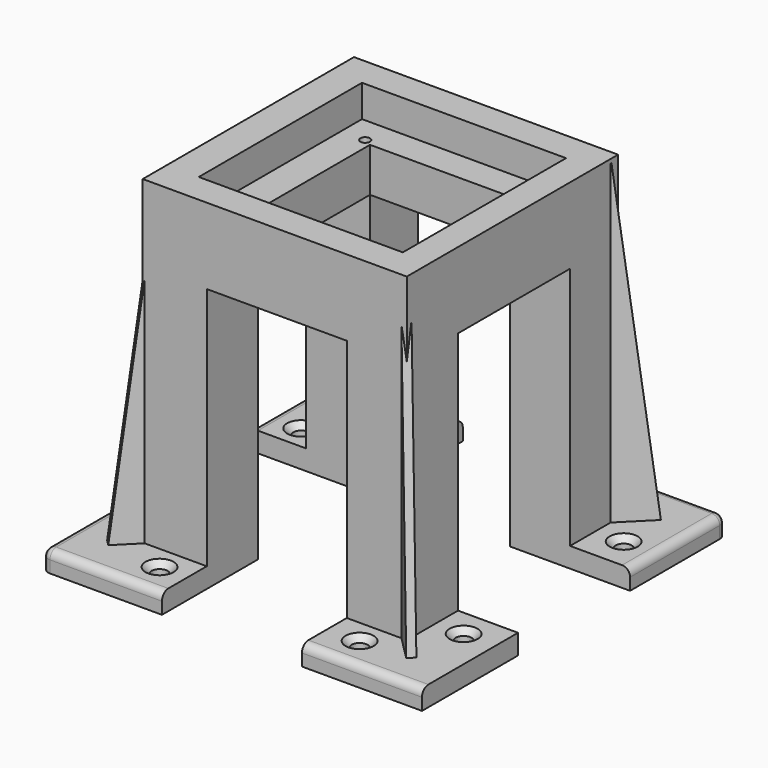
from build123d import *

# Parameters (mm, degrees)
CYLINDER019_R             = 1.2
CYLINDER019_DEPTH         = 10
CYLINDER020_R             = 1.2
CYLINDER020_DEPTH         = 10
CYLINDER021_R             = 1.2
CYLINDER021_DEPTH         = 10
CYLINDER018_R             = 1.2
CYLINDER018_DEPTH         = 10
CYLINDER201_R             = 2
CYLINDER201_DEPTH         = 10
CYLINDER200_R             = 2
CYLINDER200_DEPTH         = 10
BOX013_W                  = 5
BOX013_H                  = 10
BOX013_DEPTH              = 150
BOX013_PLACEMENT_ANGLE    = 7
BOX012_W                  = 2
BOX012_H                  = 10
BOX012_DEPTH              = 80
CUT015_PLACEMENT_ANGLE    = 45
BOX246_W                  = 30
BOX246_H                  = 30
BOX246_DEPTH              = 5
CHAMFER011_SIZE           = 1.5
CHAMFER012_SIZE           = 1.5
FILLET177_R               = 2
FILLET008_R               = 2
FILLET008_PLACEMENT_ANGLE = 90
CYLINDER013_R             = 2
CYLINDER013_DEPTH         = 10
CYLINDER012_R             = 2
CYLINDER012_DEPTH         = 10
BOX016_W                  = 5
BOX016_H                  = 10
BOX016_DEPTH              = 150
BOX016_PLACEMENT_ANGLE    = 7
BOX015_W                  = 2
BOX015_H                  = 10
BOX015_DEPTH              = 80
CUT018_PLACEMENT_ANGLE    = 45
BOX014_W                  = 30
BOX014_H                  = 30
BOX014_DEPTH              = 5
CHAMFER013_SIZE           = 1.5
CHAMFER014_SIZE           = 1.5
FILLET178_R               = 2
CYLINDER017_R             = 2
CYLINDER017_DEPTH         = 10
CYLINDER016_R             = 2
CYLINDER016_DEPTH         = 10
BOX022_W                  = 5
BOX022_H                  = 10
BOX022_DEPTH              = 150
BOX022_PLACEMENT_ANGLE    = 7
BOX021_W                  = 2
BOX021_H                  = 10
BOX021_DEPTH              = 80
CUT024_PLACEMENT_ANGLE    = 45
BOX020_W                  = 30
BOX020_H                  = 30
BOX020_DEPTH              = 5
CHAMFER017_SIZE           = 1.5
CHAMFER018_SIZE           = 1.5
FILLET181_R               = 2
FILLET182_R               = 2
FILLET182_PLACEMENT_ANGLE = 90
BOX023_W                  = 60
BOX023_H                  = 60
BOX023_DEPTH              = 10
CYLINDER015_R             = 2
CYLINDER015_DEPTH         = 10
CYLINDER014_R             = 2
CYLINDER014_DEPTH         = 10
BOX019_W                  = 5
BOX019_H                  = 10
BOX019_DEPTH              = 150
BOX019_PLACEMENT_ANGLE    = 7
BOX018_W                  = 2
BOX018_H                  = 10
BOX018_DEPTH              = 80
CUT021_PLACEMENT_ANGLE    = 45
BOX017_W                  = 30
BOX017_H                  = 30
BOX017_DEPTH              = 5
CHAMFER015_SIZE           = 1.5
CHAMFER016_SIZE           = 1.5
FILLET179_R               = 2
FILLET180_R               = 2
FILLET180_PLACEMENT_ANGLE = 180
CYLINDER199_R             = 2
CYLINDER199_DEPTH         = 10
CYLINDER198_R             = 2
CYLINDER198_DEPTH         = 10
BOX245_W                  = 5
BOX245_H                  = 10
BOX245_DEPTH              = 150
BOX245_PLACEMENT_ANGLE    = 7
BOX244_W                  = 2
BOX244_H                  = 10
BOX244_DEPTH              = 80
CUT275_PLACEMENT_ANGLE    = 45
BOX243_W                  = 30
BOX243_H                  = 30
BOX243_DEPTH              = 5
CHAMFER009_SIZE           = 1.5
CHAMFER010_SIZE           = 1.5
FILLET175_R               = 2
FILLET176_R               = 2
BOX242_W                  = 51
BOX242_H                  = 51
BOX242_DEPTH              = 10
BOX241_W                  = 35
BOX241_H                  = 100
BOX241_DEPTH              = 89
BOX240_W                  = 80
BOX240_H                  = 35
BOX240_DEPTH              = 89
BOX239_W                  = 35
BOX239_H                  = 35
BOX239_DEPTH              = 89
BOX238_W                  = 50
BOX238_H                  = 50
BOX238_DEPTH              = 8
BOX237_W                  = 66
BOX237_H                  = 66
BOX237_DEPTH              = 85


with BuildPart() as cilindro019:
    # Cylinder019 → Cylinder019 (new body)
    with BuildSketch(Plane(origin=(19, -19, -9), x_dir=(1, 0, 0), z_dir=(0, 0, 1))):
        Circle(CYLINDER019_R)
    extrude(amount=CYLINDER019_DEPTH)


with BuildPart() as cilindro020:
    # Cylinder020 → Cylinder020 (new body)
    with BuildSketch(Plane(origin=(19, 19, -9), x_dir=(1, 0, 0), z_dir=(0, 0, 1))):
        Circle(CYLINDER020_R)
    extrude(amount=CYLINDER020_DEPTH)


with BuildPart() as cilindro021:
    # Cylinder021 → Cylinder021 (new body)
    with BuildSketch(Plane(origin=(-19, 19, -9), x_dir=(1, 0, 0), z_dir=(0, 0, 1))):
        Circle(CYLINDER021_R)
    extrude(amount=CYLINDER021_DEPTH)


with BuildPart() as cilindro018:
    # Cylinder018 → Cylinder018 (new body)
    with BuildSketch(Plane(origin=(-19, -19, -9), x_dir=(1, 0, 0), z_dir=(0, 0, 1))):
        Circle(CYLINDER018_R)
    extrude(amount=CYLINDER018_DEPTH)


with BuildPart() as cilindro201:
    # Cylinder201 → Cylinder201 (new body)
    with BuildSketch(Plane(origin=(26, -39, -80), x_dir=(1, 0, 0), z_dir=(0, 0, 1))):
        Circle(CYLINDER201_R)
    extrude(amount=CYLINDER201_DEPTH)


with BuildPart() as cilindro200:
    # Cylinder200 → Cylinder200 (new body)
    with BuildSketch(Plane(origin=(40, -24, -80), x_dir=(1, 0, 0), z_dir=(0, 0, 1))):
        Circle(CYLINDER200_R)
    extrude(amount=CYLINDER200_DEPTH)


with BuildPart() as cubo013:
    # Box013 → Box013 (new body)
    with BuildSketch(Plane.XY):
        with Locations((2.5, 5)):
            Rectangle(BOX013_W, BOX013_H)
    extrude(amount=BOX013_DEPTH)


with BuildPart() as cubo013_1:
    # Box013 placement: moved
    add(cubo013.part.moved(Location((39, -52.5, -100))).rotate(Axis((39, -52.5, -100), (-1, 0, 0)), BOX013_PLACEMENT_ANGLE))


with BuildPart() as cut015:
    # Box012 → Box012 (new body)
    with BuildSketch(Plane(origin=(39, -39, -73), x_dir=(1, 0, 0), z_dir=(0, 0, 1))):
        with Locations((1, 5)):
            Rectangle(BOX012_W, BOX012_H)
    extrude(amount=BOX012_DEPTH)

    # Cut015: cut Cubo013
    add(cubo013_1.part, mode=Mode.SUBTRACT)


with BuildPart() as cut015_1:
    # Cut015 placement: moved
    add(cut015.part.moved(Location((-17.5, -39, 0))).rotate(Axis((-17.5, -39, 0), (0, 0, 1)), CUT015_PLACEMENT_ANGLE))


with BuildPart() as fillet008:
    # Box246 → Box246 (new body)
    with BuildSketch(Plane(origin=(18, -47, -77), x_dir=(1, 0, 0), z_dir=(0, 0, 1))):
        with Locations((15, 15)):
            Rectangle(BOX246_W, BOX246_H)
    extrude(amount=BOX246_DEPTH)

    # Fusion148: union Cut015
    add(cut015_1.part)

    # Cut277: cut Cilindro200
    add(cilindro200.part, mode=Mode.SUBTRACT)

    # Cut278: cut Cilindro201
    add(cilindro201.part, mode=Mode.SUBTRACT)

    # Chamfer011
    chamfer011_edges = [fillet008.edges().sort_by_distance(p)[0] for p in [
        (24, -39, -72),
    ]]
    chamfer(chamfer011_edges, length=CHAMFER011_SIZE)

    # Chamfer012
    chamfer012_edges = [fillet008.edges().sort_by_distance(p)[0] for p in [
        (38, -24, -72),
    ]]
    chamfer(chamfer012_edges, length=CHAMFER012_SIZE)

    # Fillet177
    fillet177_edges = [fillet008.edges().sort_by_distance(p)[0] for p in [
        (33, -47, -72),
    ]]
    fillet(fillet177_edges, radius=FILLET177_R)

    # Fillet008
    fillet008_edges = [fillet008.edges().sort_by_distance(p)[0] for p in [
        (48, -31, -72),
    ]]
    fillet(fillet008_edges, radius=FILLET008_R)


with BuildPart() as fillet008_1:
    # Fillet008 placement: moved
    add(fillet008.part.moved(Location((1, 0, 0))).rotate(Axis((1, 0, 0), (0, 0, 1)), FILLET008_PLACEMENT_ANGLE))


with BuildPart() as cilindro013:
    # Cylinder013 → Cylinder013 (new body)
    with BuildSketch(Plane(origin=(26, -39, -80), x_dir=(1, 0, 0), z_dir=(0, 0, 1))):
        Circle(CYLINDER013_R)
    extrude(amount=CYLINDER013_DEPTH)


with BuildPart() as cilindro012:
    # Cylinder012 → Cylinder012 (new body)
    with BuildSketch(Plane(origin=(40, -24, -80), x_dir=(1, 0, 0), z_dir=(0, 0, 1))):
        Circle(CYLINDER012_R)
    extrude(amount=CYLINDER012_DEPTH)


with BuildPart() as cubo016:
    # Box016 → Box016 (new body)
    with BuildSketch(Plane.XY):
        with Locations((2.5, 5)):
            Rectangle(BOX016_W, BOX016_H)
    extrude(amount=BOX016_DEPTH)


with BuildPart() as cubo016_1:
    # Box016 placement: moved
    add(cubo016.part.moved(Location((39, -52.5, -100))).rotate(Axis((39, -52.5, -100), (-1, 0, 0)), BOX016_PLACEMENT_ANGLE))


with BuildPart() as cut018:
    # Box015 → Box015 (new body)
    with BuildSketch(Plane(origin=(39, -39, -73), x_dir=(1, 0, 0), z_dir=(0, 0, 1))):
        with Locations((1, 5)):
            Rectangle(BOX015_W, BOX015_H)
    extrude(amount=BOX015_DEPTH)

    # Cut018: cut Cubo016
    add(cubo016_1.part, mode=Mode.SUBTRACT)


with BuildPart() as cut018_1:
    # Cut018 placement: moved
    add(cut018.part.moved(Location((-17.5, -39, 0))).rotate(Axis((-17.5, -39, 0), (0, 0, 1)), CUT018_PLACEMENT_ANGLE))


with BuildPart() as fillet178:
    # Box014 → Box014 (new body)
    with BuildSketch(Plane(origin=(18, -47, -77), x_dir=(1, 0, 0), z_dir=(0, 0, 1))):
        with Locations((15, 15)):
            Rectangle(BOX014_W, BOX014_H)
    extrude(amount=BOX014_DEPTH)

    # Fusion149: union Cut018
    add(cut018_1.part)

    # Cut019: cut Cilindro012
    add(cilindro012.part, mode=Mode.SUBTRACT)

    # Cut020: cut Cilindro013
    add(cilindro013.part, mode=Mode.SUBTRACT)

    # Chamfer013
    chamfer013_edges = [fillet178.edges().sort_by_distance(p)[0] for p in [
        (24, -39, -72),
    ]]
    chamfer(chamfer013_edges, length=CHAMFER013_SIZE)

    # Chamfer014
    chamfer014_edges = [fillet178.edges().sort_by_distance(p)[0] for p in [
        (38, -24, -72),
    ]]
    chamfer(chamfer014_edges, length=CHAMFER014_SIZE)

    # Fillet178
    fillet178_edges = [fillet178.edges().sort_by_distance(p)[0] for p in [
        (33, -47, -72),
    ]]
    fillet(fillet178_edges, radius=FILLET178_R)


with BuildPart() as cilindro017:
    # Cylinder017 → Cylinder017 (new body)
    with BuildSketch(Plane(origin=(26, -39, -80), x_dir=(1, 0, 0), z_dir=(0, 0, 1))):
        Circle(CYLINDER017_R)
    extrude(amount=CYLINDER017_DEPTH)


with BuildPart() as cilindro016:
    # Cylinder016 → Cylinder016 (new body)
    with BuildSketch(Plane(origin=(40, -24, -80), x_dir=(1, 0, 0), z_dir=(0, 0, 1))):
        Circle(CYLINDER016_R)
    extrude(amount=CYLINDER016_DEPTH)


with BuildPart() as cubo022:
    # Box022 → Box022 (new body)
    with BuildSketch(Plane.XY):
        with Locations((2.5, 5)):
            Rectangle(BOX022_W, BOX022_H)
    extrude(amount=BOX022_DEPTH)


with BuildPart() as cubo022_1:
    # Box022 placement: moved
    add(cubo022.part.moved(Location((39, -52.5, -100))).rotate(Axis((39, -52.5, -100), (-1, 0, 0)), BOX022_PLACEMENT_ANGLE))


with BuildPart() as cut024:
    # Box021 → Box021 (new body)
    with BuildSketch(Plane(origin=(39, -39, -73), x_dir=(1, 0, 0), z_dir=(0, 0, 1))):
        with Locations((1, 5)):
            Rectangle(BOX021_W, BOX021_H)
    extrude(amount=BOX021_DEPTH)

    # Cut024: cut Cubo022
    add(cubo022_1.part, mode=Mode.SUBTRACT)


with BuildPart() as cut024_1:
    # Cut024 placement: moved
    add(cut024.part.moved(Location((-17.5, -39, 0))).rotate(Axis((-17.5, -39, 0), (0, 0, 1)), CUT024_PLACEMENT_ANGLE))


with BuildPart() as fillet182:
    # Box020 → Box020 (new body)
    with BuildSketch(Plane(origin=(18, -47, -77), x_dir=(1, 0, 0), z_dir=(0, 0, 1))):
        with Locations((15, 15)):
            Rectangle(BOX020_W, BOX020_H)
    extrude(amount=BOX020_DEPTH)

    # Fusion151: union Cut024
    add(cut024_1.part)

    # Cut025: cut Cilindro016
    add(cilindro016.part, mode=Mode.SUBTRACT)

    # Cut026: cut Cilindro017
    add(cilindro017.part, mode=Mode.SUBTRACT)

    # Chamfer017
    chamfer017_edges = [fillet182.edges().sort_by_distance(p)[0] for p in [
        (24, -39, -72),
    ]]
    chamfer(chamfer017_edges, length=CHAMFER017_SIZE)

    # Chamfer018
    chamfer018_edges = [fillet182.edges().sort_by_distance(p)[0] for p in [
        (38, -24, -72),
    ]]
    chamfer(chamfer018_edges, length=CHAMFER018_SIZE)

    # Fillet181
    fillet181_edges = [fillet182.edges().sort_by_distance(p)[0] for p in [
        (33, -47, -72),
    ]]
    fillet(fillet181_edges, radius=FILLET181_R)

    # Fillet182
    fillet182_edges = [fillet182.edges().sort_by_distance(p)[0] for p in [
        (48, -31, -72),
    ]]
    fillet(fillet182_edges, radius=FILLET182_R)


with BuildPart() as fillet182_1:
    # Fillet182 placement: moved
    add(fillet182.part.moved(Location((0, 1, 0))).rotate(Axis((0, 1, 0), (0, 0, -1)), FILLET182_PLACEMENT_ANGLE))


with BuildPart() as cubo023:
    # Box023 → Box023 (new body)
    with BuildSketch(Plane(origin=(-49, -42, -80), x_dir=(1, 0, 0), z_dir=(0, 0, 1))):
        with Locations((30, 30)):
            Rectangle(BOX023_W, BOX023_H)
    extrude(amount=BOX023_DEPTH)


with BuildPart() as cilindro015:
    # Cylinder015 → Cylinder015 (new body)
    with BuildSketch(Plane(origin=(26, -39, -80), x_dir=(1, 0, 0), z_dir=(0, 0, 1))):
        Circle(CYLINDER015_R)
    extrude(amount=CYLINDER015_DEPTH)


with BuildPart() as cilindro014:
    # Cylinder014 → Cylinder014 (new body)
    with BuildSketch(Plane(origin=(40, -24, -80), x_dir=(1, 0, 0), z_dir=(0, 0, 1))):
        Circle(CYLINDER014_R)
    extrude(amount=CYLINDER014_DEPTH)


with BuildPart() as cubo019:
    # Box019 → Box019 (new body)
    with BuildSketch(Plane.XY):
        with Locations((2.5, 5)):
            Rectangle(BOX019_W, BOX019_H)
    extrude(amount=BOX019_DEPTH)


with BuildPart() as cubo019_1:
    # Box019 placement: moved
    add(cubo019.part.moved(Location((39, -52.5, -100))).rotate(Axis((39, -52.5, -100), (-1, 0, 0)), BOX019_PLACEMENT_ANGLE))


with BuildPart() as cut021:
    # Box018 → Box018 (new body)
    with BuildSketch(Plane(origin=(39, -39, -73), x_dir=(1, 0, 0), z_dir=(0, 0, 1))):
        with Locations((1, 5)):
            Rectangle(BOX018_W, BOX018_H)
    extrude(amount=BOX018_DEPTH)

    # Cut021: cut Cubo019
    add(cubo019_1.part, mode=Mode.SUBTRACT)


with BuildPart() as cut021_1:
    # Cut021 placement: moved
    add(cut021.part.moved(Location((-17.5, -39, 0))).rotate(Axis((-17.5, -39, 0), (0, 0, 1)), CUT021_PLACEMENT_ANGLE))


with BuildPart() as cut027:
    # Box017 → Box017 (new body)
    with BuildSketch(Plane(origin=(18, -47, -77), x_dir=(1, 0, 0), z_dir=(0, 0, 1))):
        with Locations((15, 15)):
            Rectangle(BOX017_W, BOX017_H)
    extrude(amount=BOX017_DEPTH)

    # Fusion150: union Cut021
    add(cut021_1.part)

    # Cut022: cut Cilindro014
    add(cilindro014.part, mode=Mode.SUBTRACT)

    # Cut023: cut Cilindro015
    add(cilindro015.part, mode=Mode.SUBTRACT)

    # Chamfer015
    chamfer015_edges = [cut027.edges().sort_by_distance(p)[0] for p in [
        (24, -39, -72),
    ]]
    chamfer(chamfer015_edges, length=CHAMFER015_SIZE)

    # Chamfer016
    chamfer016_edges = [cut027.edges().sort_by_distance(p)[0] for p in [
        (38, -24, -72),
    ]]
    chamfer(chamfer016_edges, length=CHAMFER016_SIZE)

    # Fillet179
    fillet179_edges = [cut027.edges().sort_by_distance(p)[0] for p in [
        (33, -47, -72),
    ]]
    fillet(fillet179_edges, radius=FILLET179_R)

    # Fillet180
    fillet180_edges = [cut027.edges().sort_by_distance(p)[0] for p in [
        (48, -31, -72),
    ]]
    fillet(fillet180_edges, radius=FILLET180_R)


with BuildPart() as cut027_1:
    # Fillet180 placement: moved
    add(cut027.part.moved(Location((1, 0, 0))).rotate(Axis((1, 0, 0), (0, 0, 1)), FILLET180_PLACEMENT_ANGLE))

    # Cut027: cut Cubo023
    add(cubo023.part, mode=Mode.SUBTRACT)


with BuildPart() as cilindro199:
    # Cylinder199 → Cylinder199 (new body)
    with BuildSketch(Plane(origin=(26, -39, -80), x_dir=(1, 0, 0), z_dir=(0, 0, 1))):
        Circle(CYLINDER199_R)
    extrude(amount=CYLINDER199_DEPTH)


with BuildPart() as cilindro198:
    # Cylinder198 → Cylinder198 (new body)
    with BuildSketch(Plane(origin=(40, -24, -80), x_dir=(1, 0, 0), z_dir=(0, 0, 1))):
        Circle(CYLINDER198_R)
    extrude(amount=CYLINDER198_DEPTH)


with BuildPart() as cubo231:
    # Box245 → Box245 (new body)
    with BuildSketch(Plane.XY):
        with Locations((2.5, 5)):
            Rectangle(BOX245_W, BOX245_H)
    extrude(amount=BOX245_DEPTH)


with BuildPart() as cubo231_1:
    # Box245 placement: moved
    add(cubo231.part.moved(Location((39, -52.5, -100))).rotate(Axis((39, -52.5, -100), (-1, 0, 0)), BOX245_PLACEMENT_ANGLE))


with BuildPart() as cut275:
    # Box244 → Box244 (new body)
    with BuildSketch(Plane(origin=(39, -39, -73), x_dir=(1, 0, 0), z_dir=(0, 0, 1))):
        with Locations((1, 5)):
            Rectangle(BOX244_W, BOX244_H)
    extrude(amount=BOX244_DEPTH)

    # Cut275: cut Cubo231
    add(cubo231_1.part, mode=Mode.SUBTRACT)


with BuildPart() as cut275_1:
    # Cut275 placement: moved
    add(cut275.part.moved(Location((-17.5, -39, 0))).rotate(Axis((-17.5, -39, 0), (0, 0, 1)), CUT275_PLACEMENT_ANGLE))


with BuildPart() as fillet176:
    # Box243 → Box243 (new body)
    with BuildSketch(Plane(origin=(18, -47, -77), x_dir=(1, 0, 0), z_dir=(0, 0, 1))):
        with Locations((15, 15)):
            Rectangle(BOX243_W, BOX243_H)
    extrude(amount=BOX243_DEPTH)

    # Fusion147: union Cut275
    add(cut275_1.part)

    # Cut276: cut Cilindro198
    add(cilindro198.part, mode=Mode.SUBTRACT)

    # Cut014: cut Cilindro199
    add(cilindro199.part, mode=Mode.SUBTRACT)

    # Chamfer009
    chamfer009_edges = [fillet176.edges().sort_by_distance(p)[0] for p in [
        (24, -39, -72),
    ]]
    chamfer(chamfer009_edges, length=CHAMFER009_SIZE)

    # Chamfer010
    chamfer010_edges = [fillet176.edges().sort_by_distance(p)[0] for p in [
        (38, -24, -72),
    ]]
    chamfer(chamfer010_edges, length=CHAMFER010_SIZE)

    # Fillet175
    fillet175_edges = [fillet176.edges().sort_by_distance(p)[0] for p in [
        (33, -47, -72),
    ]]
    fillet(fillet175_edges, radius=FILLET175_R)

    # Fillet176
    fillet176_edges = [fillet176.edges().sort_by_distance(p)[0] for p in [
        (48, -31, -72),
    ]]
    fillet(fillet176_edges, radius=FILLET176_R)


with BuildPart() as cubo228:
    # Box242 → Box242 (new body)
    with BuildSketch(Plane(origin=(-25, -25.5, 0), x_dir=(1, 0, 0), z_dir=(0, 0, 1))):
        with Locations((25.5, 25.5)):
            Rectangle(BOX242_W, BOX242_H)
    extrude(amount=BOX242_DEPTH)


with BuildPart() as cubo227:
    # Box241 → Box241 (new body)
    with BuildSketch(Plane(origin=(-17, -40, -100), x_dir=(1, 0, 0), z_dir=(0, 0, 1))):
        with Locations((17.5, 50)):
            Rectangle(BOX241_W, BOX241_H)
    extrude(amount=BOX241_DEPTH)


with BuildPart() as cubo226:
    # Box240 → Box240 (new body)
    with BuildSketch(Plane(origin=(-39, -17, -100), x_dir=(1, 0, 0), z_dir=(0, 0, 1))):
        with Locations((40, 17.5)):
            Rectangle(BOX240_W, BOX240_H)
    extrude(amount=BOX240_DEPTH)


with BuildPart() as cubo225:
    # Box239 → Box239 (new body)
    with BuildSketch(Plane(origin=(-17, -17, -81), x_dir=(1, 0, 0), z_dir=(0, 0, 1))):
        with Locations((17.5, 17.5)):
            Rectangle(BOX239_W, BOX239_H)
    extrude(amount=BOX239_DEPTH)


with BuildPart() as cubo224:
    # Box238 → Box238 (new body)
    with BuildSketch(Plane(origin=(-25, -25, 0), x_dir=(1, 0, 0), z_dir=(0, 0, 1))):
        with Locations((25, 25)):
            Rectangle(BOX238_W, BOX238_H)
    extrude(amount=BOX238_DEPTH)


with BuildPart() as obj1:
    # Box237 → Box237 (new body)
    with BuildSketch(Plane(origin=(-33, -33, -77), x_dir=(1, 0, 0), z_dir=(0, 0, 1))):
        with Locations((33, 33)):
            Rectangle(BOX237_W, BOX237_H)
    extrude(amount=BOX237_DEPTH)

    # Cut007: cut Cubo224
    add(cubo224.part, mode=Mode.SUBTRACT)

    # Cut008: cut Cubo225
    add(cubo225.part, mode=Mode.SUBTRACT)

    # Cut009: cut Cubo226
    add(cubo226.part, mode=Mode.SUBTRACT)

    # Cut010: cut Cubo227
    add(cubo227.part, mode=Mode.SUBTRACT)

    # Cut011: cut Cubo228
    add(cubo228.part, mode=Mode.SUBTRACT)

    # Fusion152: union Fillet176
    add(fillet176.part)

    # Fusion153: union Cut027
    add(cut027_1.part)

    # Fusion154: union Fillet182
    add(fillet182_1.part)

    # Fusion155: union Fillet178
    add(fillet178.part)

    # Fusion011: union Fillet008
    add(fillet008_1.part)

    # Cut028: cut Cilindro018
    add(cilindro018.part, mode=Mode.SUBTRACT)

    # Cut029: cut Cilindro021
    add(cilindro021.part, mode=Mode.SUBTRACT)

    # Cut030: cut Cilindro020
    add(cilindro020.part, mode=Mode.SUBTRACT)

    # Cut031: cut Cilindro019
    add(cilindro019.part, mode=Mode.SUBTRACT)


with BuildPart() as obj1_1:
    # Cut031 placement: moved
    add(obj1.part.moved(Location((-2, 0, 42))))


solid = obj1_1.part
